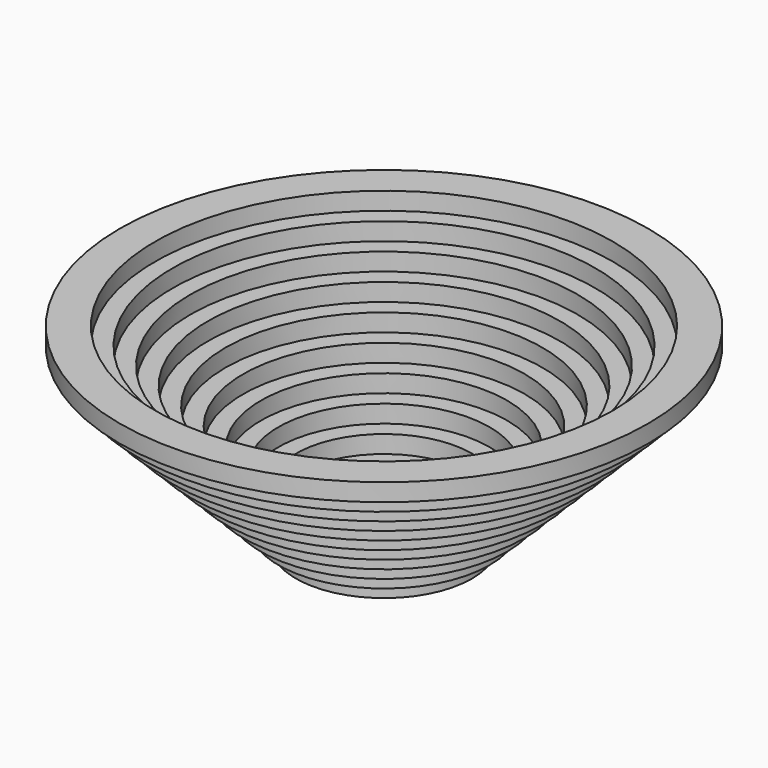
from build123d import *


with BuildPart() as f1:
    # F0 (on Front) → F1 (revolve)
    with BuildSketch(Plane.XZ):
        Polygon((0, 10), (0, 0), (50, 0), (50, 10), (60, 10), (60, 20), (70, 20), (70, 30), (80, 30), (80, 40), (90, 40), (90, 50), (100, 50), (100, 60), (110, 60), (110, 70), (120, 70), (120, 80), (130, 80), (130, 90), (140, 90), (140, 100), (150, 100), (150, 110), (130, 110), (130, 100), (120, 100), (120, 90), (110, 90), (110, 80), (100, 80), (100, 70), (90, 70), (90, 60), (80, 60), (80, 50), (70, 50), (70, 40), (60, 40), (60, 30), (50, 30), (50, 20), (40, 20), (40, 10), align=None)
    revolve(axis=Axis((0, 0, 5), (0, 0, -1)))


solid = f1.part
